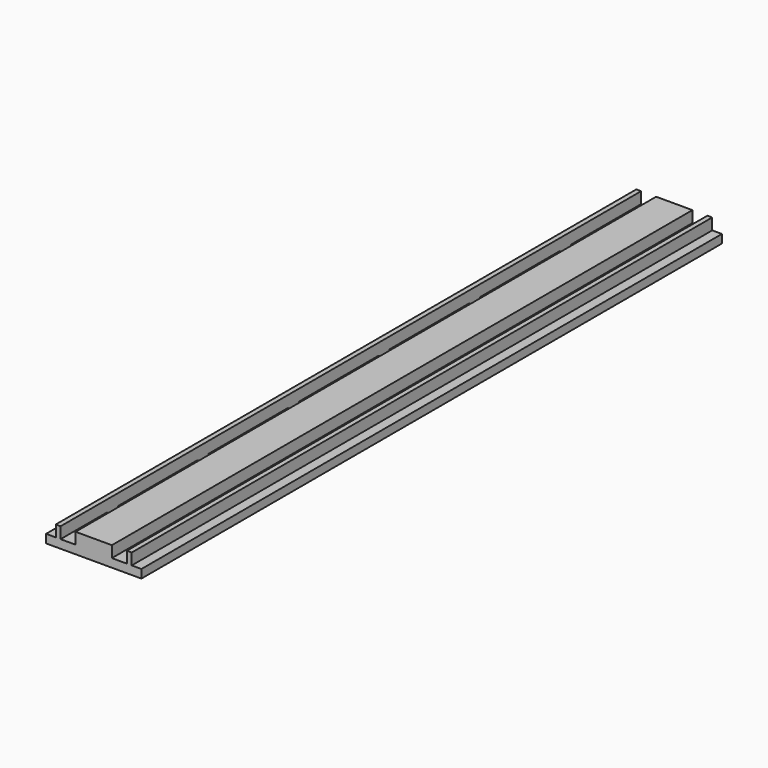
from build123d import *

# Parameters (mm, degrees)
F1_DEPTH = 300
F2_W     = 5.8
F2_H     = 5.8
F3_DEPTH = 3.501


with BuildPart() as f1:
    # F0 (on Front) → F1 (new body)
    with BuildSketch(Plane.XZ):
        Polygon((-20.152273, 3.5), (-20.152273, 0), (19.247727, 0), (19.247727, 3.5), (15.247727, 3.5), (15.247727, 8.2), (13.247727, 8.2), (13.247727, 3.5), (7.047727, 3.5), (7.047727, 8.2), (-7.952273, 8.2), (-7.952273, 3.5), (-14.152273, 3.5), (-14.152273, 8.2), (-16.152273, 8.2), (-16.152273, 3.5), align=None)
    extrude(amount=-F1_DEPTH)

    # F2 (on face) → F3 (cut, through all)
    with BuildSketch(Plane.XY.offset(3.5)):
        with Locations((-11.252273, 26.756441)):
            Rectangle(F2_W, F2_H)
        with Locations((-11.252273, 73.556441)):
            Rectangle(F2_W, F2_H)
        with Locations((-11.252273, 120.356441)):
            Rectangle(F2_W, F2_H)
        with Locations((-11.252273, 167.156441)):
            Rectangle(F2_W, F2_H)
        with Locations((-11.252273, 213.956441)):
            Rectangle(F2_W, F2_H)
        with Locations((-11.252273, 260.756441)):
            Rectangle(F2_W, F2_H)
        with Locations((-11.252273, 307.556441)):
            Rectangle(F2_W, F2_H)
        with Locations((-11.252273, 354.356441)):
            Rectangle(F2_W, F2_H)
        with Locations((-11.252273, 401.156441)):
            Rectangle(F2_W, F2_H)
        with Locations((-11.252273, 447.956441)):
            Rectangle(F2_W, F2_H)
        with Locations((-11.252273, 494.756441)):
            Rectangle(F2_W, F2_H)
        with Locations((-11.252273, 541.556441)):
            Rectangle(F2_W, F2_H)
        with Locations((-11.252273, 588.356441)):
            Rectangle(F2_W, F2_H)
        with Locations((-11.252273, 635.156441)):
            Rectangle(F2_W, F2_H)
        with Locations((-11.252273, 681.956441)):
            Rectangle(F2_W, F2_H)
        with Locations((-11.252273, 728.756441)):
            Rectangle(F2_W, F2_H)
        with Locations((-11.252273, 775.556441)):
            Rectangle(F2_W, F2_H)
        with Locations((-11.252273, 822.356441)):
            Rectangle(F2_W, F2_H)
        with Locations((-11.252273, 869.156441)):
            Rectangle(F2_W, F2_H)
        with Locations((-11.252273, 915.956441)):
            Rectangle(F2_W, F2_H)
        with Locations((-11.252273, 962.756441)):
            Rectangle(F2_W, F2_H)
        with Locations((-11.252273, 1009.556441)):
            Rectangle(F2_W, F2_H)
        with Locations((-11.252273, 1056.356441)):
            Rectangle(F2_W, F2_H)
        with Locations((-11.252273, 1103.156441)):
            Rectangle(F2_W, F2_H)
        with Locations((-11.252273, 1149.956441)):
            Rectangle(F2_W, F2_H)
        with Locations((-11.252273, 1196.756441)):
            Rectangle(F2_W, F2_H)
        with Locations((-11.252273, 1243.556441)):
            Rectangle(F2_W, F2_H)
        with Locations((-11.252273, 1290.356441)):
            Rectangle(F2_W, F2_H)
        with Locations((-11.252273, 1337.156441)):
            Rectangle(F2_W, F2_H)
        with Locations((-11.252273, 1383.956441)):
            Rectangle(F2_W, F2_H)
        with Locations((10.347727, 26.756441)):
            Rectangle(F2_W, F2_H)
        with Locations((10.347727, 73.556441)):
            Rectangle(F2_W, F2_H)
        with Locations((10.347727, 120.356441)):
            Rectangle(F2_W, F2_H)
        with Locations((10.347727, 167.156441)):
            Rectangle(F2_W, F2_H)
        with Locations((10.347727, 213.956441)):
            Rectangle(F2_W, F2_H)
        with Locations((10.347727, 260.756441)):
            Rectangle(F2_W, F2_H)
        with Locations((10.347727, 307.556441)):
            Rectangle(F2_W, F2_H)
        with Locations((10.347727, 354.356441)):
            Rectangle(F2_W, F2_H)
        with Locations((10.347727, 401.156441)):
            Rectangle(F2_W, F2_H)
        with Locations((10.347727, 447.956441)):
            Rectangle(F2_W, F2_H)
        with Locations((10.347727, 494.756441)):
            Rectangle(F2_W, F2_H)
        with Locations((10.347727, 541.556441)):
            Rectangle(F2_W, F2_H)
        with Locations((10.347727, 588.356441)):
            Rectangle(F2_W, F2_H)
        with Locations((10.347727, 635.156441)):
            Rectangle(F2_W, F2_H)
        with Locations((10.347727, 681.956441)):
            Rectangle(F2_W, F2_H)
        with Locations((10.347727, 728.756441)):
            Rectangle(F2_W, F2_H)
        with Locations((10.347727, 775.556441)):
            Rectangle(F2_W, F2_H)
        with Locations((10.347727, 822.356441)):
            Rectangle(F2_W, F2_H)
        with Locations((10.347727, 869.156441)):
            Rectangle(F2_W, F2_H)
        with Locations((10.347727, 915.956441)):
            Rectangle(F2_W, F2_H)
        with Locations((10.347727, 962.756441)):
            Rectangle(F2_W, F2_H)
        with Locations((10.347727, 1009.556441)):
            Rectangle(F2_W, F2_H)
        with Locations((10.347727, 1056.356441)):
            Rectangle(F2_W, F2_H)
        with Locations((10.347727, 1103.156441)):
            Rectangle(F2_W, F2_H)
        with Locations((10.347727, 1149.956441)):
            Rectangle(F2_W, F2_H)
        with Locations((10.347727, 1196.756441)):
            Rectangle(F2_W, F2_H)
        with Locations((10.347727, 1243.556441)):
            Rectangle(F2_W, F2_H)
        with Locations((10.347727, 1290.356441)):
            Rectangle(F2_W, F2_H)
        with Locations((10.347727, 1337.156441)):
            Rectangle(F2_W, F2_H)
        with Locations((10.347727, 1383.956441)):
            Rectangle(F2_W, F2_H)
        with Locations((-11.252273, 1430.756441)):
            Rectangle(F2_W, F2_H)
        with Locations((-11.252273, 1477.556441)):
            Rectangle(F2_W, F2_H)
        with Locations((-11.252273, 1524.356441)):
            Rectangle(F2_W, F2_H)
        with Locations((-11.252273, 1571.156441)):
            Rectangle(F2_W, F2_H)
        with Locations((-11.252273, 1617.956441)):
            Rectangle(F2_W, F2_H)
        with Locations((-11.252273, 1664.756441)):
            Rectangle(F2_W, F2_H)
        with Locations((-11.252273, 1711.556441)):
            Rectangle(F2_W, F2_H)
        with Locations((-11.252273, 1758.356441)):
            Rectangle(F2_W, F2_H)
        with Locations((-11.252273, 1805.156441)):
            Rectangle(F2_W, F2_H)
        with Locations((-11.252273, 1851.956441)):
            Rectangle(F2_W, F2_H)
        with Locations((-11.252273, 1898.756441)):
            Rectangle(F2_W, F2_H)
        with Locations((-11.252273, 1945.556441)):
            Rectangle(F2_W, F2_H)
        with Locations((-11.252273, 1992.356441)):
            Rectangle(F2_W, F2_H)
        with Locations((-11.252273, 2039.156441)):
            Rectangle(F2_W, F2_H)
        with Locations((-11.252273, 2085.956441)):
            Rectangle(F2_W, F2_H)
        with Locations((-11.252273, 2132.756441)):
            Rectangle(F2_W, F2_H)
        with Locations((-11.252273, 2179.556441)):
            Rectangle(F2_W, F2_H)
        with Locations((-11.252273, 2226.356441)):
            Rectangle(F2_W, F2_H)
        with Locations((-11.252273, 2273.156441)):
            Rectangle(F2_W, F2_H)
        with Locations((-11.252273, 2319.956441)):
            Rectangle(F2_W, F2_H)
        with Locations((10.347727, 1430.756441)):
            Rectangle(F2_W, F2_H)
        with Locations((10.347727, 1477.556441)):
            Rectangle(F2_W, F2_H)
        with Locations((10.347727, 1524.356441)):
            Rectangle(F2_W, F2_H)
        with Locations((10.347727, 1571.156441)):
            Rectangle(F2_W, F2_H)
        with Locations((10.347727, 1617.956441)):
            Rectangle(F2_W, F2_H)
        with Locations((10.347727, 1664.756441)):
            Rectangle(F2_W, F2_H)
        with Locations((10.347727, 1711.556441)):
            Rectangle(F2_W, F2_H)
        with Locations((10.347727, 1758.356441)):
            Rectangle(F2_W, F2_H)
        with Locations((10.347727, 1805.156441)):
            Rectangle(F2_W, F2_H)
        with Locations((10.347727, 1851.956441)):
            Rectangle(F2_W, F2_H)
        with Locations((10.347727, 1898.756441)):
            Rectangle(F2_W, F2_H)
        with Locations((10.347727, 1945.556441)):
            Rectangle(F2_W, F2_H)
        with Locations((10.347727, 1992.356441)):
            Rectangle(F2_W, F2_H)
        with Locations((10.347727, 2039.156441)):
            Rectangle(F2_W, F2_H)
        with Locations((10.347727, 2085.956441)):
            Rectangle(F2_W, F2_H)
        with Locations((10.347727, 2132.756441)):
            Rectangle(F2_W, F2_H)
        with Locations((10.347727, 2179.556441)):
            Rectangle(F2_W, F2_H)
        with Locations((10.347727, 2226.356441)):
            Rectangle(F2_W, F2_H)
        with Locations((10.347727, 2273.156441)):
            Rectangle(F2_W, F2_H)
        with Locations((10.347727, 2319.956441)):
            Rectangle(F2_W, F2_H)
    extrude(amount=-F3_DEPTH, mode=Mode.SUBTRACT)


solid = f1.part
